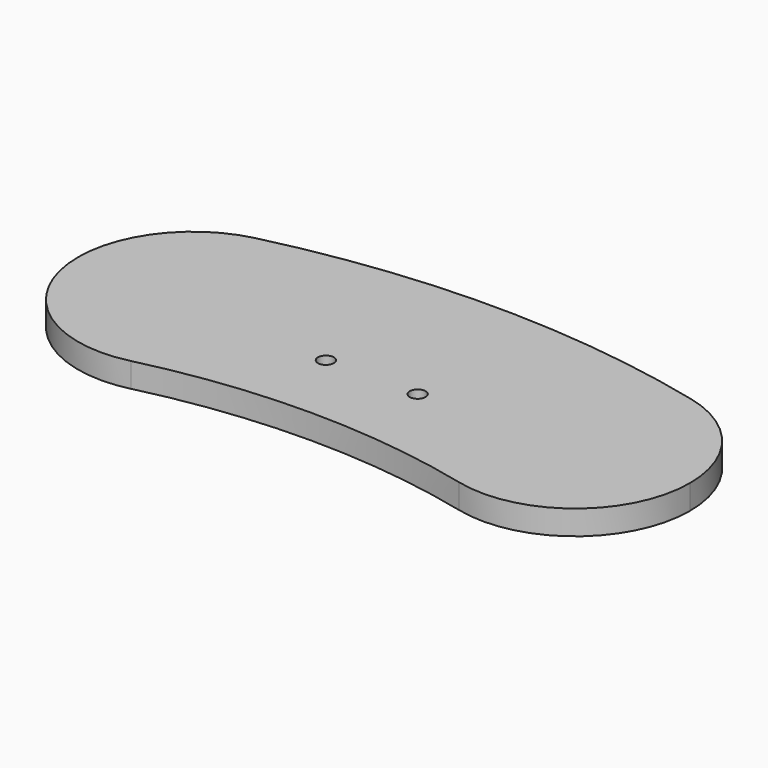
from build123d import *

# Parameters (mm, degrees)
F1_R     = 2.6
F1_R_2   = 1.75
F2_DEPTH = 8


with BuildPart() as f2:
    # F1 (on Top) → F2 (new body)
    with BuildSketch(Plane.XY):
        with BuildLine():
            ThreePointArc((-71.3722397476, 66.4353312303), (-39.3316918026, 59.4869377058), (-25, 30))
            ThreePointArc((-25, 30), (-33.0130622942, 6.8316918026), (-53.6277602524, -6.4353312303))
            ThreePointArc((-53.6277602524, -6.4353312303), (0, 0), (53.6277602524, -6.4353312303))
            ThreePointArc((53.6277602524, -6.4353312303), (26.0646687697, 38.8722397476), (71.3722397476, 66.4353312303))
            ThreePointArc((71.3722397476, 66.4353312303), (0, 75), (-71.3722397476, 66.4353312303))
        make_face()
        with Locations((-15, 25)):
            Circle(F1_R, mode=Mode.SUBTRACT)
        with Locations((0, 25)):
            Circle(F1_R, mode=Mode.SUBTRACT)
        with Locations((15, 25)):
            Circle(F1_R, mode=Mode.SUBTRACT)
        with BuildLine():
            ThreePointArc((-53.6277602524, -6.4353312303), (-33.0130622942, 6.8316918026), (-25, 30))
            ThreePointArc((-25, 30), (-39.3316918026, 59.4869377058), (-71.3722397476, 66.4353312303))
            ThreePointArc((-71.3722397476, 66.4353312303), (-98.9353312303, 21.1277602524), (-53.6277602524, -6.4353312303))
        make_face()
        with Locations((-50, 20)):
            Circle(F1_R_2, mode=Mode.SUBTRACT)
        with BuildLine():
            ThreePointArc((100, 30), (91.9869377058, 53.1683081974), (71.3722397476, 66.4353312303))
            ThreePointArc((71.3722397476, 66.4353312303), (26.0646687697, 38.8722397476), (53.6277602524, -6.4353312303))
            ThreePointArc((53.6277602524, -6.4353312303), (85.6683081974, 0.5130622942), (100, 30))
        make_face()
        with Locations((50, 20)):
            Circle(F1_R_2, mode=Mode.SUBTRACT)
        with Locations((0, 25)):
            Circle(F1_R)
        with Locations((-50, 20)):
            Circle(F1_R_2)
        with Locations((50, 20)):
            Circle(F1_R_2)
    extrude(amount=F2_DEPTH)


solid = f2.part
